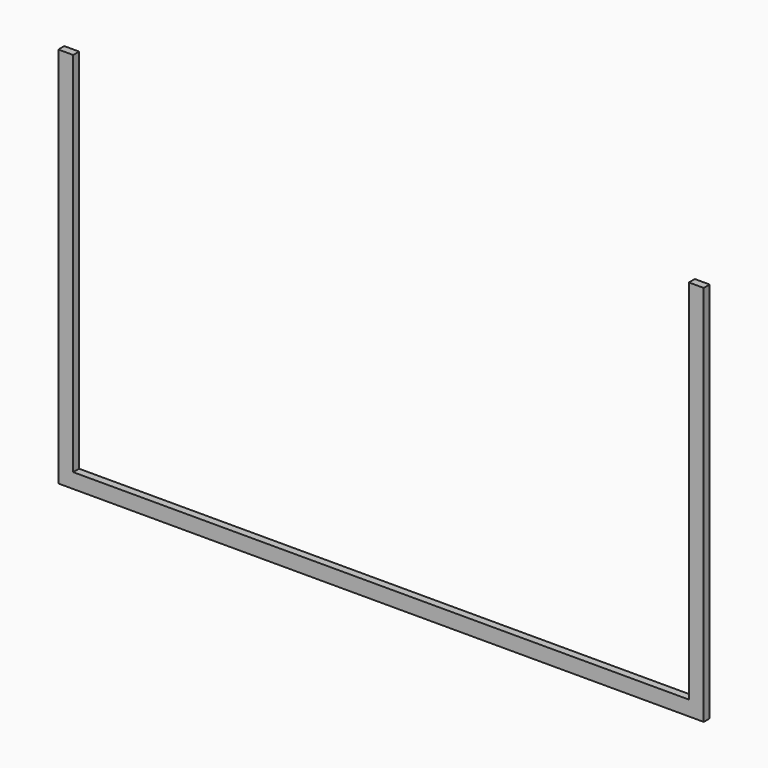
from build123d import *

# Parameters (mm, degrees)
F0_W     = 4
F0_H     = 99
F0_H_2   = 4
F0_W_2   = 166
F1_DEPTH = 1


with BuildPart() as f1:
    # F0 (on Front) → F1 (new body, symmetric)
    with BuildSketch(Plane.XZ):
        with Locations((-85, 2)):
            Rectangle(F0_W, F0_H)
        with Locations((-85, -49.5)):
            Rectangle(F0_W, F0_H_2)
        with Locations((0, -49.5)):
            Rectangle(F0_W_2, F0_H_2)
        with Locations((85, 2)):
            Rectangle(F0_W, F0_H)
        with Locations((85, -49.5)):
            Rectangle(F0_W, F0_H_2)
    extrude(amount=F1_DEPTH, both=True)


solid = f1.part
